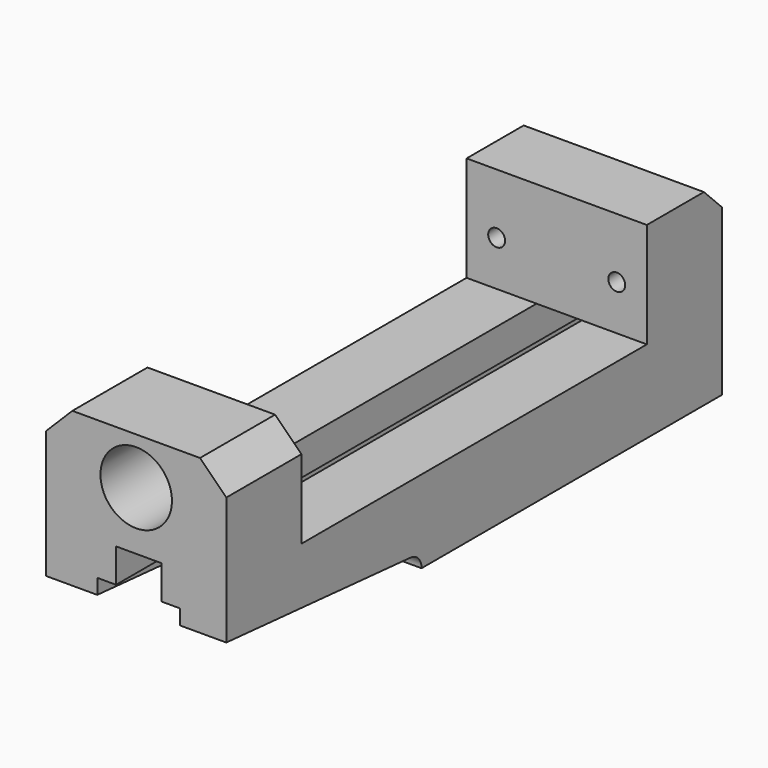
from build123d import *

# Parameters (mm, degrees)
F0_W      = 48
F0_H      = 165
F1_DEPTH  = 50
F2_W      = 115
F2_H      = 28
F3_DEPTH  = 48
F4_R      = 9.525
F5_DEPTH  = 25
F6_SIZE   = 7
F7_SIZE   = 6
F9_DEPTH  = 165
F10_R     = 2.25
F11_DEPTH = 25
F10_R_2   = 4
F12_DEPTH = 5
F14_DEPTH = 48
F15_R     = 3
F16_DEPTH = 14


with BuildPart() as f1:
    # F0 (on Top) → F1 (new body)
    with BuildSketch(Plane.XY):
        Rectangle(F0_W, F0_H)
    extrude(amount=F1_DEPTH)

    # F2 (on face) → F3 (cut)
    with BuildSketch(Plane.YZ.offset(24)):
        with Locations((0, 36)):
            Rectangle(F2_W, F2_H)
    extrude(amount=-F3_DEPTH, mode=Mode.SUBTRACT)

    # F4 (on face) → F5 (cut)
    with BuildSketch(Plane.XZ.offset(82.5)):
        with Locations((0, 37.5)):
            Circle(F4_R)
    extrude(amount=-F5_DEPTH, mode=Mode.SUBTRACT)

    # F6
    f6_edges = [f1.edges().sort_by_distance(p)[0] for p in [
        (-24, -70, 50),
        (24, -70, 50),
    ]]
    chamfer(f6_edges, length=F6_SIZE)

    # F7
    f7_edges = [f1.edges().sort_by_distance(p)[0] for p in [
        (0, 82.5, 50),
    ]]
    chamfer(f7_edges, length=F7_SIZE)

    # F8 (on face) → F9 (cut)
    with BuildSketch(Plane(origin=(0, 82.5, 0), x_dir=(-1, 0, 0), z_dir=(0, 1, 0))):
        Polygon((-11.6835255176, 0), (0, 0), (10.3664744824, 0), (10.3664744824, 13), (5.3664744824, 13), (5.3664744824, 22), (-6.6835255176, 22), (-6.6835255176, 13), (-11.6835255176, 13), align=None)
    extrude(amount=-F9_DEPTH, mode=Mode.SUBTRACT)

    # F10 (on face) → F11 (cut)
    with BuildSketch(Plane(origin=(0, 82.5, 0), x_dir=(-1, 0, 0), z_dir=(0, 1, 0))):
        with Locations((16, 34)):
            Circle(F10_R)
        with Locations((-16, 34)):
            Circle(F10_R)
    extrude(amount=-F11_DEPTH, mode=Mode.SUBTRACT)

    # F10 (on face) → F12 (cut)
    with BuildSketch(Plane(origin=(0, 82.5, 0), x_dir=(-1, 0, 0), z_dir=(0, 1, 0))):
        with Locations((-16, 34)):
            Circle(F10_R_2)
        with Locations((-16, 34)):
            Circle(F10_R, mode=Mode.SUBTRACT)
        with Locations((16, 34)):
            Circle(F10_R_2)
        with Locations((16, 34)):
            Circle(F10_R, mode=Mode.SUBTRACT)
    extrude(amount=-F12_DEPTH, mode=Mode.SUBTRACT)

    # F13 (on face) → F14 (cut)
    with BuildSketch(Plane(origin=(-24, 0, 0), x_dir=(0, -1, 0), z_dir=(-1, 0, 0))):
        with BuildLine():
            Line((82.5, 9), (21.3676690006, 3.9978104641))
            ThreePointArc((21.3676690006, 3.9978104641), (18.6251674833, 2.781247562), (17.5, 0))
            Line((17.5, 0), (82.5, 0))
            Line((82.5, 0), (82.5, 9))
        make_face()
    extrude(amount=-F14_DEPTH, mode=Mode.SUBTRACT)

    # F15 (on face) → F16 (cut)
    with BuildSketch(Plane(origin=(0, 0, 0), x_dir=(1, 0, 0), z_dir=(0, 0, -1))):
        with Locations((-17.1832372412, -0.5)):
            Circle(F15_R)
        with Locations((-17.1832372412, -56.5)):
            Circle(F15_R)
        with Locations((17.8167627588, -56.5)):
            Circle(F15_R)
        with Locations((17.8167627588, -0.5)):
            Circle(F15_R)
    extrude(amount=-F16_DEPTH, mode=Mode.SUBTRACT)


solid = f1.part
